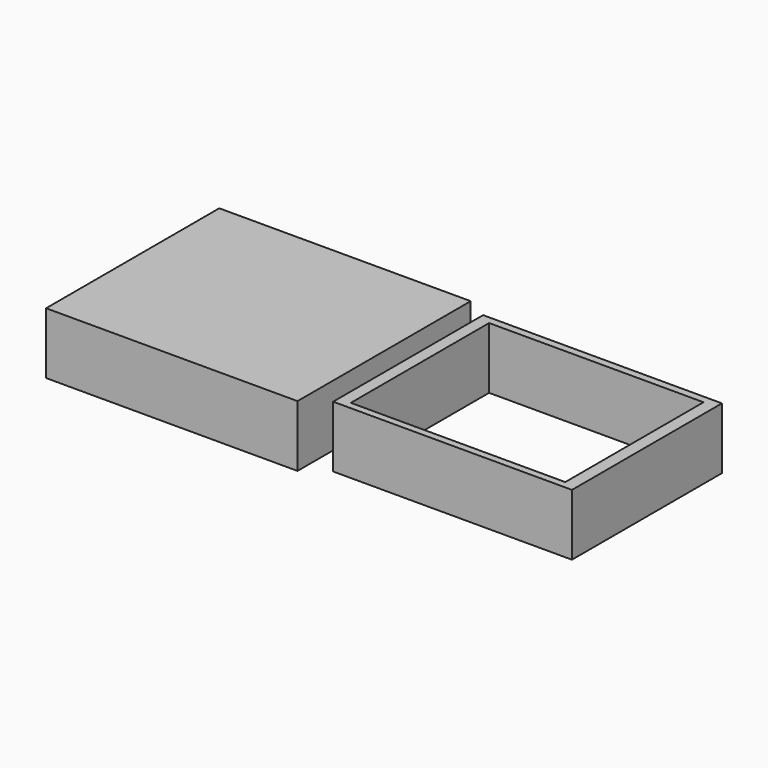
from build123d import *

# Parameters (mm, degrees)
F0_W     = 98.671046
F0_H     = 77.452082
F0_W_2   = 88.608526
F0_H_2   = 71.411476
F1_DEPTH = 25.4
F2_W     = 103.88444
F2_H     = 89.447331
F3_DEPTH = 25.4


with BuildPart() as f1:
    # F0 (on Top) → F1 (new body)
    with BuildSketch(Plane.XY):
        with Locations((0.950126, -0.204144)):
            Rectangle(F0_W, F0_H)
        with Locations((0.874426, -0.291474)):
            Rectangle(F0_W_2, F0_H_2, mode=Mode.SUBTRACT)
    extrude(amount=F1_DEPTH)


with BuildPart() as f3:
    # F2 (on Top) → F3 (new body)
    with BuildSketch(Plane.XY):
        with Locations((-109.550068, -1.080951)):
            Rectangle(F2_W, F2_H)
    extrude(amount=F3_DEPTH)


solid = Compound([f1.part, f3.part])
